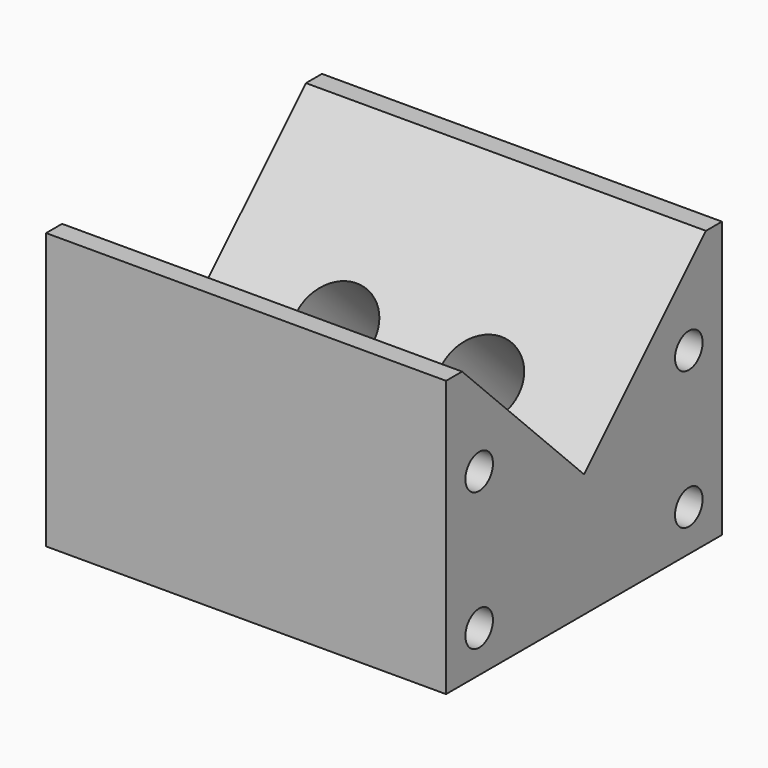
from build123d import *

# Parameters (mm, degrees)
F1_DEPTH = 29
F3_DEPTH = 21
F5_D     = 5
F6_D     = 5
F7_D     = 5
F7_DEPTH = 10
F7_TIP   = 1.5021515476
F9_D     = 11.2


with BuildPart() as f1:
    # F0 (on Right) → F1 (new body, symmetric)
    with BuildSketch(Plane.YZ):
        Polygon((-22.1, 20), (-25, 20), (-25, -20), (25, -20), (25, 20), (22.1, 20), (0, -2.1), align=None)
    extrude(amount=F1_DEPTH, both=True)

    # F2 (on Right) → F3 (cut, symmetric)
    with BuildSketch(Plane.YZ):
        Polygon((7, -20), (25, -20), (25, -2), align=None)
    extrude(amount=F3_DEPTH, both=True, mode=Mode.SUBTRACT)

    # F5 (through all)
    with Locations(Plane(origin=(-29, 0, 0), x_dir=(0, -1, 0), z_dir=(-1, 0, 0))):
        with Locations((-19, -14), (19, -14)):
            Hole(F5_D / 2)

    # F6 (through all)
    with Locations(Plane(origin=(-29, 0, 0), x_dir=(0, -1, 0), z_dir=(-1, 0, 0))):
        with Locations((-19, 6), (19, 6)):
            Hole(F6_D / 2)

    # F7
    with Locations(Plane(origin=(-29, 0, 0), x_dir=(0, -1, 0), z_dir=(-1, 0, 0))):
        with Locations((-19, -4), (19, -4)):
            Hole(F7_D / 2, depth=F7_DEPTH)
            with Locations((0, 0, -(F7_DEPTH + F7_TIP / 2))):  # 118° drill point
                Cone(0, F7_D / 2, F7_TIP, mode=Mode.SUBTRACT)

    # F9 (through all)
    with Locations(Plane(origin=(0, 13.5, -13.5), x_dir=(-1, 0, 0), z_dir=(0, 0.7071067812, -0.7071067812))):
        with Locations((-10.5, 4.5150757595), (10.5, 4.5150757595)):
            Hole(F9_D / 2)


solid = f1.part
